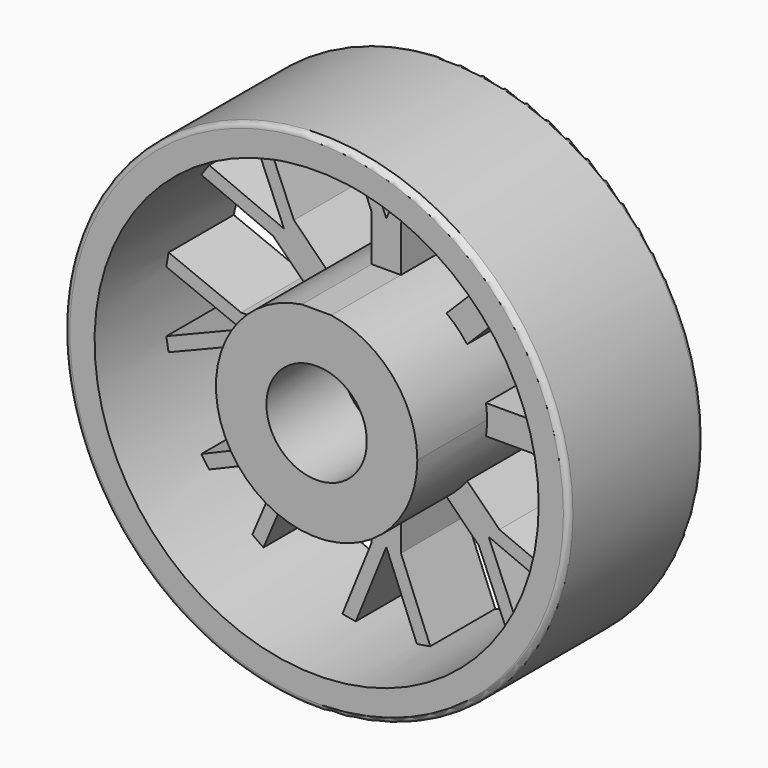
from build123d import *

# Parameters (mm, degrees)
F1_DEPTH       = 3.8862
F2_COUNT       = 8
F0_R           = 12.0523
F3_DEPTH       = 8.0518
F4_D           = 4.8006
F4_CBORE_D     = 6.731
F4_CBORE_DEPTH = 3.5306
F5_R           = 0.254
F6_DEPTH       = 3.8862


with BuildPart() as f1:
    # F0 (on Front) → F1 (new body)
    with BuildSketch(Plane.XZ):
        with BuildLine():
            Line((0.6985, 4.7623475976), (0.6985, 6.9467475976))
            Line((0.6985, 6.9467475976), (0.013371136, 6.9467475976))
            Line((0.013371136, 6.9467475976), (0, 6.9137418223))
            Line((0, 6.9137418223), (-0.013371136, 6.9467475976))
            Line((-0.013371136, 6.9467475976), (-0.6985, 6.9467475976))
            Line((-0.6985, 6.9467475976), (-0.6985, 4.7623475976))
            ThreePointArc((-0.6985, 4.7623475976), (0, 4.8133), (0.6985, 4.7623475976))
        make_face()
        with BuildLine():
            Line((0.6985, 6.9467475976), (2.1004446952, 10.4073564329))
            ThreePointArc((2.1004446952, 10.4073564329), (1.7808041825, 10.4667890159), (1.4594938078, 10.51640688))
            Line((1.4594938078, 10.51640688), (0.013371136, 6.9467475976))
            Line((0.013371136, 6.9467475976), (0.6985, 6.9467475976))
        make_face()
        with BuildLine():
            ThreePointArc((-1.4594938078, 10.51640688), (-1.7808041825, 10.4667890159), (-2.1004446952, 10.4073564329))
            Line((-2.1004446952, 10.4073564329), (-0.6985, 6.9467475976))
            Line((-0.6985, 6.9467475976), (-0.013371136, 6.9467475976))
            Line((-0.013371136, 6.9467475976), (-1.4594938078, 10.51640688))
        make_face()
    extrude(amount=F1_DEPTH)


with BuildPart() as f2_1:
    # F2: instance of F1
    add(f1.part.rotate(Axis((0, 0, 0), (0, -1, 0)), 1 * 360 / F2_COUNT))


with BuildPart() as f2_2:
    # F2: instance of F1
    add(f1.part.rotate(Axis((0, 0, 0), (0, -1, 0)), 2 * 360 / F2_COUNT))


with BuildPart() as f2_3:
    # F2: instance of F1
    add(f1.part.rotate(Axis((0, 0, 0), (0, -1, 0)), 3 * 360 / F2_COUNT))


with BuildPart() as f2_4:
    # F2: instance of F1
    add(f1.part.rotate(Axis((0, 0, 0), (0, -1, 0)), 4 * 360 / F2_COUNT))


with BuildPart() as f2_5:
    # F2: instance of F1
    add(f1.part.rotate(Axis((0, 0, 0), (0, -1, 0)), 5 * 360 / F2_COUNT))


with BuildPart() as f2_6:
    # F2: instance of F1
    add(f1.part.rotate(Axis((0, 0, 0), (0, -1, 0)), 6 * 360 / F2_COUNT))


with BuildPart() as f2_7:
    # F2: instance of F1
    add(f1.part.rotate(Axis((0, 0, 0), (0, -1, 0)), 7 * 360 / F2_COUNT))


with BuildPart() as f1_1:
    add(f1.part)

    add(f2_1.part)  # F3 merges F2_1

    add(f2_2.part)  # F3 merges F2_2

    add(f2_3.part)  # F3 merges F2_3

    add(f2_4.part)  # F3 merges F2_4

    add(f2_5.part)  # F3 merges F2_5

    add(f2_6.part)  # F3 merges F2_6

    add(f2_7.part)  # F3 merges F2_7
    # F0 (on Front) → F3 (join)
    with BuildSketch(Plane.XZ):
        Circle(F0_R)
        with BuildLine():
            ThreePointArc((2.1004446952, 10.4073564329), (8.2166227021, 6.7239904232), (10.6172, 0))
            ThreePointArc((10.6172, 0), (-6.7239904232, -8.2166227021), (-2.1004446952, 10.4073564329))
            ThreePointArc((-2.1004446952, 10.4073564329), (-1.7808041825, 10.4667890159), (-1.4594938078, 10.51640688))
            ThreePointArc((-1.4594938078, 10.51640688), (0, 10.6172), (1.4594938078, 10.51640688))
            ThreePointArc((1.4594938078, 10.51640688), (1.7808041825, 10.4667890159), (2.1004446952, 10.4073564329))
        make_face(mode=Mode.SUBTRACT)
        with BuildLine():
            ThreePointArc((4.8133, 0), (3.6421111282, 3.1468847167), (0.6985, 4.7623475976))
            Line((0.6985, 4.7623475976), (-0.6985, 4.7623475976))
            ThreePointArc((-0.6985, 4.7623475976), (-3.1468847167, -3.6421111282), (4.8133, 0))
        make_face()
    extrude(amount=F3_DEPTH)

    # F4 (through all)
    with Locations(Plane(origin=(0, 0, 0), x_dir=(1, 0, 0), z_dir=(0, 1, 0))):
        with Locations((0, 0)):
            CounterBoreHole(F4_D / 2, F4_CBORE_D / 2, F4_CBORE_DEPTH)

    # F5
    f5_edges = [f1_1.edges().sort_by_distance(p)[0] for p in [
        (-12.0523, -8.0518, 0),
        (-12.0523, 0, 0),
    ]]
    fillet(f5_edges, radius=F5_R)

    # F0 (on Front) → F6 (join, through all)
    with BuildSketch(Plane.XZ):
        with BuildLine():
            Line((-0.6985, 4.7623475976), (0.6985, 4.7623475976))
            ThreePointArc((0.6985, 4.7623475976), (0, 4.8133), (-0.6985, 4.7623475976))
        make_face()
    extrude(amount=F6_DEPTH)


solid = f1_1.part
